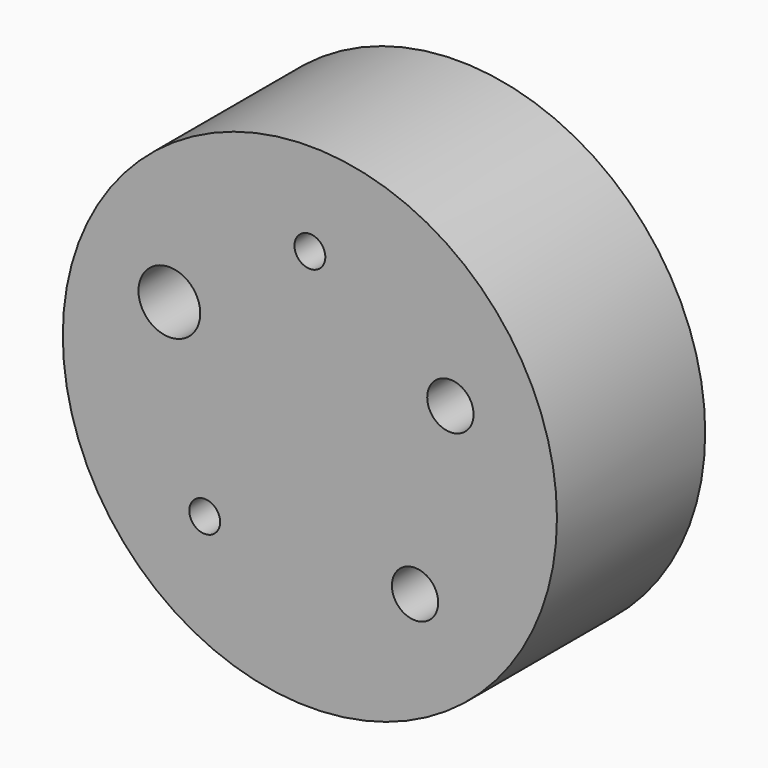
from build123d import *

# Parameters (mm, degrees)
F0_R           = 50.8
F1_DEPTH       = 38.1
F3_D           = 6.35
F4_D           = 12.7
F5_D           = 9.525
F5_CBORE_D     = 19.05
F5_CBORE_DEPTH = 6.35
F6_D           = 9.525
F6_CSINK_D     = 19.05
F6_CSINK_ANGLE = 82
F7_D           = 6.35


with BuildPart() as f1:
    # F0 (on Front) → F1 (new body)
    with BuildSketch(Plane.XZ):
        Circle(F0_R)
    extrude(amount=F1_DEPTH)

    # F3 (through all)
    with Locations(Plane(origin=(0, 0, 0), x_dir=(1, 0, 0), z_dir=(0, 1, 0))):
        with Locations((0, -31.75)):
            Hole(F3_D / 2)

    # F4 (through all)
    with Locations(Plane(origin=(0, 0, 0), x_dir=(1, 0, 0), z_dir=(0, 1, 0))):
        with Locations((-28.8894439592, -13.1705173676)):
            Hole(F4_D / 2)

    # F5 (through all)
    with Locations(Plane(origin=(0, 0, 0), x_dir=(1, 0, 0), z_dir=(0, 1, 0))):
        with Locations((28.8894439592, -13.1705173676)):
            CounterBoreHole(F5_D / 2, F5_CBORE_D / 2, F5_CBORE_DEPTH)

    # F6 (through all)
    with Locations(Plane(origin=(0, 0, 0), x_dir=(1, 0, 0), z_dir=(0, 1, 0))):
        with Locations((21.623259188, 23.2485948412)):
            CounterSinkHole(F6_D / 2, F6_CSINK_D / 2, counter_sink_angle=F6_CSINK_ANGLE)

    # F7 (through all)
    with Locations(Plane(origin=(0, 0, 0), x_dir=(1, 0, 0), z_dir=(0, 1, 0))):
        with Locations((-21.623259188, 23.2485948412)):
            Hole(F7_D / 2)


solid = f1.part
